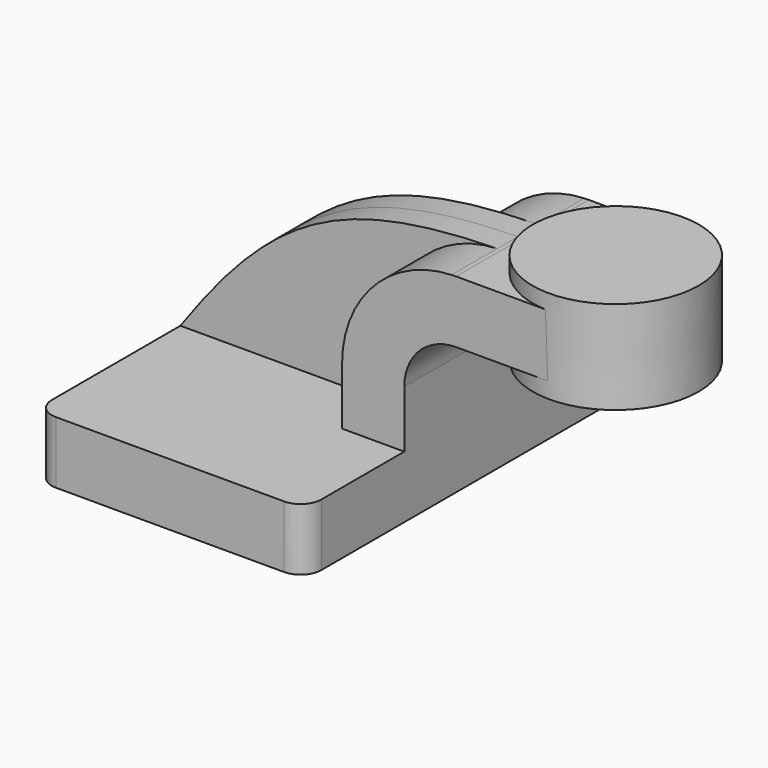
from build123d import *

# Parameters (mm, degrees)
F1_DEPTH = 63.5
F0_W     = 25.3649728298
F0_H     = 19.05
F2_DEPTH = 25.4
F3_DEPTH = 7.9375
F5_R     = 6.35


with BuildPart() as f1:
    # F0 (on Front) → F1 (new body, symmetric)
    with BuildSketch(Plane.XZ):
        Polygon((-41.275, -9.525), (41.275, -9.525), (41.275, 9.525), (22.225, 9.525), (-41.275, 9.525), align=None)
    extrude(amount=F1_DEPTH, both=True)

    # F0 (on Front) → F2 (join, symmetric)
    with BuildSketch(Plane.XZ):
        with BuildLine():
            Line((22.225, 9.525), (41.275, 9.525))
            Line((41.275, 9.525), (41.275, 27.0002))
            ThreePointArc((41.275, 27.0002), (45.9246798487, 38.2255201513), (57.15, 42.8752))
            Line((57.15, 42.8752), (60.3600271702, 42.8752))
            Line((60.3600271702, 42.8752), (60.3600271702, 61.9252))
            Line((60.3600271702, 61.9252), (57.15, 61.9252))
            add(Edge.make_bspline(
                [(55.8049149759, 61.8992884018), (56.250937163, 61.9088103387), (56.6992894846, 61.9174422694), (57.15, 61.9252)],
                knots=[110.4669042638, 110.4669042638, 110.4669042638, 110.4669042638, 111.5045361635, 111.5045361635, 111.5045361635, 111.5045361635], degree=3))
            ThreePointArc((55.8049149759, 61.8992884018), (31.9832290563, 51.215675739), (22.225, 27.0002))
            Line((22.225, 27.0002), (22.225, 9.525))
        make_face()
        with Locations((73.0425135851, 52.4002)):
            Rectangle(F0_W, F0_H)
    extrude(amount=F2_DEPTH, both=True)

    # F0 (on Front) → F3 (join, symmetric)
    with BuildSketch(Plane.XZ):
        with BuildLine():
            add(Edge.make_bspline(
                [(-41.275, 9.525), (-12.7532446295, 49.7846645012), (8.3211297732, 60.8855773876), (55.8049149759, 61.8992884018)],
                knots=[0, 0, 0, 0, 110.4669042638, 110.4669042638, 110.4669042638, 110.4669042638], degree=3))
            Line((-41.275, 9.525), (22.225, 9.525))
            Line((22.225, 9.525), (22.225, 27.0002))
            ThreePointArc((22.225, 27.0002), (31.9832290563, 51.215675739), (55.8049149759, 61.8992884018))
        make_face()
    extrude(amount=F3_DEPTH, both=True)

    # F0 (on Front) → F4 (revolve)
    with BuildSketch(Plane.XZ):
        Polygon((85.725, 66.675), (85.7600271702, 38.1), (111.1600271702, 38.1), (111.1600271702, 66.675), align=None)
    revolve(axis=Axis((85.7425135851, 0, 52.3875), (-0.0012257968, 0, 0.9999992487)))

    # F5
    f5_edges = [f1.edges().sort_by_distance(p)[0] for p in [
        (-41.275, -63.5, 0),
        (41.275, -63.5, 0),
        (41.275, 63.5, 0),
        (-41.275, 63.5, 0),
    ]]
    fillet(f5_edges, radius=F5_R)


solid = f1.part
